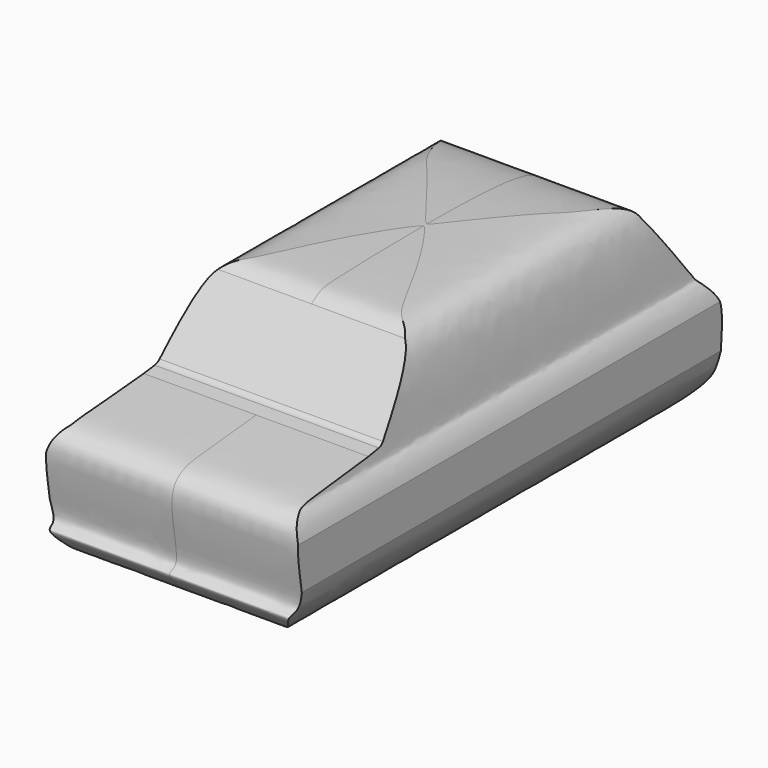
from build123d import *

# Parameters (mm, degrees)
F1_DEPTH = 700
F3_START = 442.191087446
F3_DEPTH = 2963.2896732784


with BuildPart() as f1:
    # F0 (on Right) → F1 (new body, symmetric)
    with BuildSketch(Plane.YZ):
        with BuildLine():
            Line((2384.7239017487, 907.8956842422), (2145.8358764648, 1240.1125431061))
            add(Edge.make_bspline(
                [(2145.8358764648, 1240.1125431061), (2137.7229753962, 1255.5864230738), (2110.5130387683, 1307.4844173602), (1801.786911507, 1378.9062702318), (728.0536256894, 1355.227409906), (609.3099383117, 1342.3045843592), (564.6406828327, 1310.5851164234), (545.1833605766, 1296.7685461044)],
                knots=[0, 0, 0, 0, 0.0969305686, 0.3250963629, 0.753578692, 0.8926622181, 1, 1, 1, 1], degree=3))
            Line((545.1833605766, 1296.7685461044), (265.7970149731, 939.5651186301))
            ThreePointArc((265.7970149731, 939.5651186301), (251.6961968998, 927.232789249), (234.0464303645, 920.9554363394))
            Line((234.0464303645, 920.9554363394), (160.7809364796, 909.6373915672))
            add(Edge.make_bspline(
                [(160.7809364796, 909.6373915672), (30.932939681, 896.4160529067), (-181.4741736015, 874.7884079074), (-328.6101951864, 863.6419208238), (-470.5400356765, 778.5269574555), (-366.1922018523, 424.4544831418), (-415.5082060743, 390.2318561455), (-461.881766817, 375.4526510548), (-411.8922037711, 324.317194237), (-378.8829445839, 290.5512750149)],
                knots=[0, 0, 0, 0, 0.2272918252, 0.3718070487, 0.509744232, 0.7308226347, 0.81228852, 0.8760497888, 1, 1, 1, 1], degree=3))
            add(Edge.make_bspline(
                [(-378.8829445839, 290.5512750149), (-283.9671444504, 193.4597522385), (64.7543113428, 200.422629714), (289.597183466, 200.422629714)],
                knots=[0, 0, 0, 0, 674.5286163695, 674.5286163695, 674.5286163695, 674.5286163695], degree=3))
            Line((289.597183466, 200.422629714), (1641.6876316071, 200.422629714))
            add(Edge.make_bspline(
                [(2505.5859088898, 413.5567843914), (2503.0461338962, 388.5110269385), (2493.6250079494, 286.8659605374), (2004.6556216325, 200.422629714), (1641.6876316071, 200.422629714)],
                knots=[0, 0, 0, 0, 0.2347972167, 1, 1, 1, 1], degree=3))
            add(Edge.make_bspline(
                [(2384.7239017487, 907.8956842422), (2395.0355696127, 897.4512099361), (2411.021412816, 863.242123004), (2500.1671153747, 776.8201972741), (2530.0854277766, 667.5460340894), (2515.3446254352, 509.7914698529), (2505.5859088898, 413.5567843914)],
                knots=[0, 0, 0, 0, 0.1591413377, 0.4030263493, 0.6384505571, 1, 1, 1, 1], degree=3))
        make_face()
    extrude(amount=F1_DEPTH, both=True)

    # F2 (on Front) → F3 (intersect)
    with BuildSketch(Plane.XZ.offset(F3_START)):
        with BuildLine():
            add(Edge.make_bspline(
                [(0, 1362.2635094092), (141.0952366585, 1362.2635094092), (348.450392021, 1356.0130268588), (598.7873813749, 1325.5360309391), (620.9896586861, 854.5781458369), (647.5964612868, 849.3155000053), (729.9386062019, 732.0269000153), (701.9127614337, 411.7015613772), (604.7689198493, 276.8764674707), (502.0497795745, 205.8922679644), (402.2530626553, 200.422629714), (367.0129671798, 200.422629714)],
                knots=[0, 0, 0, 0, 0.1421109205, 0.2501284754, 0.4011241907, 0.4348269104, 0.5168770695, 0.6506958601, 0.7461222548, 0.8391787142, 0.8822078972, 0.8822078972, 0.8822078972, 0.8822078972], degree=3))
            add(Edge.make_bspline(
                [(0, 1362.2635094092), (-141.0952366585, 1362.2635094092), (-348.450392021, 1356.0130268588), (-598.7873813749, 1325.5360309391), (-620.9896586861, 854.5781458369), (-647.5964612868, 849.3155000053), (-729.9386062019, 732.0269000153), (-701.9127614337, 411.7015613772), (-604.7689198493, 276.8764674707), (-502.0497795745, 205.8922679644), (-402.2530626553, 200.422629714), (-367.0129671798, 200.422629714)],
                knots=[0, 0, 0, 0, 0.1421109205, 0.2501284754, 0.4011241907, 0.4348269104, 0.5168770695, 0.6506958601, 0.7461222548, 0.8391787142, 0.8822078972, 0.8822078972, 0.8822078972, 0.8822078972], degree=3))
            add(Edge.make_bspline(
                [(-367.0129671798, 200.422629714), (-270.5434399138, 200.422629714), (-146.4576673026, 213.3829443425), (0, 200.422629714)],
                knots=[0.8822078972, 0.8822078972, 0.8822078972, 0.8822078972, 1, 1, 1, 1], degree=3))
            add(Edge.make_bspline(
                [(367.0129671798, 200.422629714), (270.5434399138, 200.422629714), (146.4576673026, 213.3829443425), (0, 200.422629714)],
                knots=[0.8822078972, 0.8822078972, 0.8822078972, 0.8822078972, 1, 1, 1, 1], degree=3))
        make_face()
        with BuildLine():
            Line((0, 200.422629714), (367.0129671798, 200.422629714))
            add(Edge.make_bspline(
                [(367.0129671798, 200.422629714), (270.5434399138, 200.422629714), (146.4576673026, 213.3829443425), (0, 200.422629714)],
                knots=[0.8822078972, 0.8822078972, 0.8822078972, 0.8822078972, 1, 1, 1, 1], degree=3))
        make_face()
        with BuildLine():
            add(Edge.make_bspline(
                [(-367.0129671798, 200.422629714), (-270.5434399138, 200.422629714), (-146.4576673026, 213.3829443425), (0, 200.422629714)],
                knots=[0.8822078972, 0.8822078972, 0.8822078972, 0.8822078972, 1, 1, 1, 1], degree=3))
            Line((-367.0129671798, 200.422629714), (0, 200.422629714))
        make_face()
    extrude(amount=-F3_DEPTH, mode=Mode.INTERSECT)


solid = f1.part
